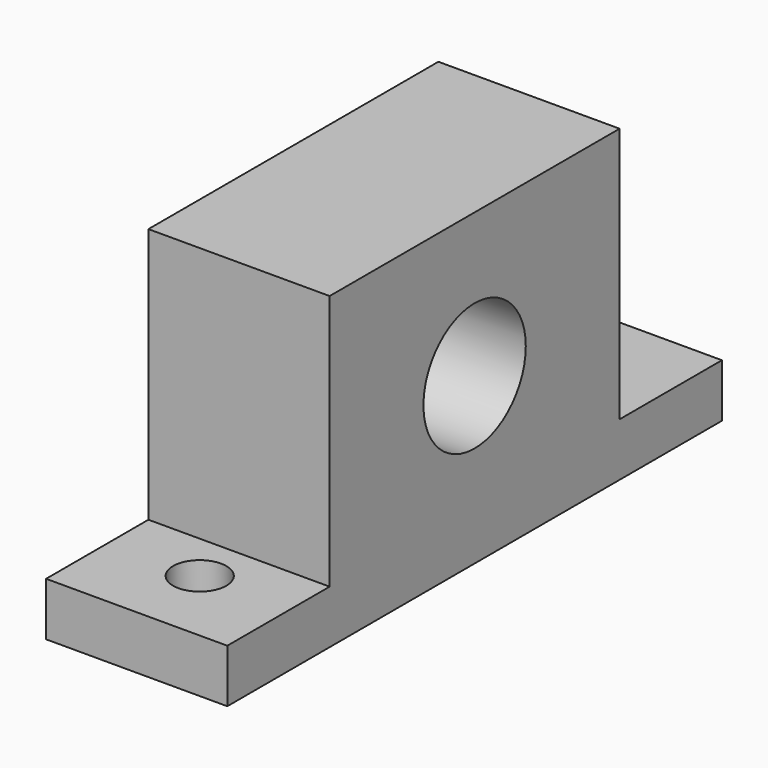
from build123d import *

# Parameters (mm, degrees)
F1_DEPTH = 15.875
F2_W     = 53.975
F2_H     = 107.95
F3_DEPTH = 76.2
F4_R     = 19.05
F5_DEPTH = 76.2
F7_DEPTH = 76.2
F8_R     = 7.9375
F9_DEPTH = 25.4


with BuildPart() as f1:
    # F0 (on Top) → F1 (new body)
    with BuildSketch(Plane.XY):
        Polygon((0, 127), (0, 0), (0, -57.15), (53.975, -57.15), (53.975, 127), align=None)
    extrude(amount=F1_DEPTH)

    # F2 (on face) → F3 (join)
    with BuildSketch(Plane.XY.offset(15.875)):
        with Locations((26.9875, 34.925)):
            Rectangle(F2_W, F2_H)
    extrude(amount=F3_DEPTH)

    # F4 (on face) → F5 (cut)
    with BuildSketch(Plane.YZ.offset(53.975)):
        with Locations((34.925, 49.2125)):
            Circle(F4_R)
    extrude(amount=-F5_DEPTH, mode=Mode.SUBTRACT)

    # F6 (on face) → F7 (cut)
    with BuildSketch(Plane.XY.offset(15.875)):
        with BuildLine():
            ThreePointArc((26.9875, 111.476155), (21.37484, 97.925995), (34.925, 103.538655))
            ThreePointArc((34.925, 103.538655), (32.60016, 109.151315), (26.9875, 111.476155))
        make_face()
    extrude(amount=-F7_DEPTH, mode=Mode.SUBTRACT)

    # F8 (on face) → F9 (cut)
    with BuildSketch(Plane.XY.offset(15.875)):
        with Locations((26.9875, -33.688782)):
            Circle(F8_R)
    extrude(amount=-F9_DEPTH, mode=Mode.SUBTRACT)


solid = f1.part
